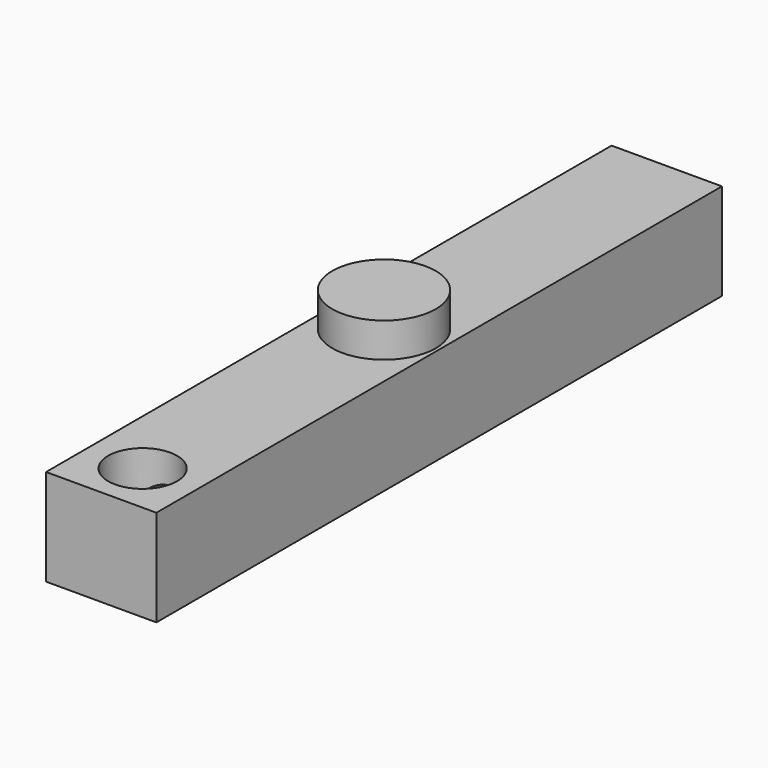
from build123d import *

# Parameters (mm, degrees)
F0_W     = 3.2
F0_H     = 20.5
F1_DEPTH = 2.8
F2_R     = 0.85
F3_DEPTH = 20
F4_R     = 1
F5_DEPTH = 1.7
F6_R     = 1.5
F7_DEPTH = 1


with BuildPart() as f1:
    # F0 (on Top) → F1 (new body)
    with BuildSketch(Plane.XY):
        with Locations((1.6, 10.25)):
            Rectangle(F0_W, F0_H)
    extrude(amount=F1_DEPTH)

    # F2 (on face) → F3 (cut)
    with BuildSketch(Plane(origin=(0, 20.5, 0), x_dir=(-1, 0, 0), z_dir=(0, 1, 0))):
        with Locations((-1.6, 1.1)):
            Circle(F2_R)
    extrude(amount=-F3_DEPTH, mode=Mode.SUBTRACT)

    # F4 (on face) → F5 (cut)
    with BuildSketch(Plane.XY.offset(2.8)):
        with Locations((1.6, 1.5)):
            Circle(F4_R)
    extrude(amount=-F5_DEPTH, mode=Mode.SUBTRACT)

    # F6 (on face) → F7 (join)
    with BuildSketch(Plane.XY.offset(2.8)):
        with Locations((1.6, 10.25)):
            Circle(F6_R)
    extrude(amount=F7_DEPTH)


solid = f1.part
